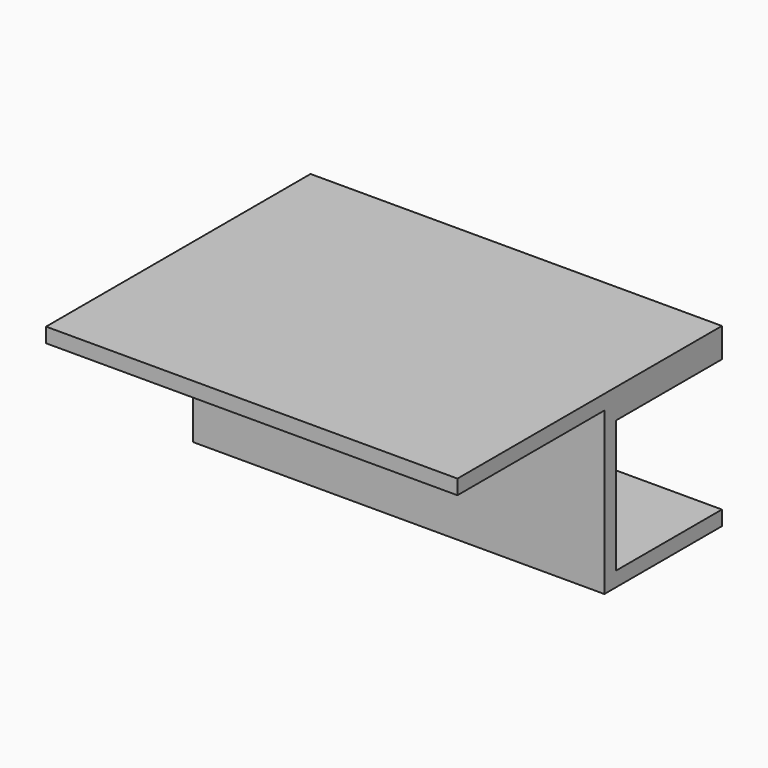
from build123d import *

# Parameters (mm, degrees)
F0_W      = 56
F0_H      = 45
F1_DEPTH  = 2
F2_W      = 56
F2_H      = 20
F3_DEPTH  = 2
F4_W      = 56
F4_H      = 2
F5_DEPTH  = 20
F6_W      = 56
F6_H      = 2
F7_DEPTH  = 20
F9_W      = 69.615941
F9_H      = 33.992227
F10_DEPTH = 25


with BuildPart() as f1:
    # F0 (on Top) → F1 (new body)
    with BuildSketch(Plane.XY):
        Rectangle(F0_W, F0_H)
    extrude(amount=F1_DEPTH)

    # F2 (on face) → F3 (join)
    with BuildSketch(Plane(origin=(0, 0, 0), x_dir=(1, 0, 0), z_dir=(0, 0, -1))):
        with Locations((0, -12.5)):
            Rectangle(F2_W, F2_H)
    extrude(amount=F3_DEPTH)

    # F4 (on face) → F5 (join)
    with BuildSketch(Plane(origin=(0, 0, -2), x_dir=(1, 0, 0), z_dir=(0, 0, -1))):
        with Locations((0, -3.5)):
            Rectangle(F4_W, F4_H)
    extrude(amount=F5_DEPTH)

    # F6 (on face) → F7 (join)
    with BuildSketch(Plane(origin=(0, 4.5, 0), x_dir=(-1, 0, 0), z_dir=(0, 1, 0))):
        with Locations((0, -21)):
            Rectangle(F6_W, F6_H)
    extrude(amount=F7_DEPTH)

    # F9 (on offset) → F10 (cut)
    with BuildSketch(Plane(origin=(0, 22.5, 0), x_dir=(-1, 0, 0), z_dir=(0, 1, 0))):
        with Locations((-4.858752, -12.837998)):
            Rectangle(F9_W, F9_H)
    extrude(amount=F10_DEPTH, mode=Mode.SUBTRACT)


solid = f1.part
